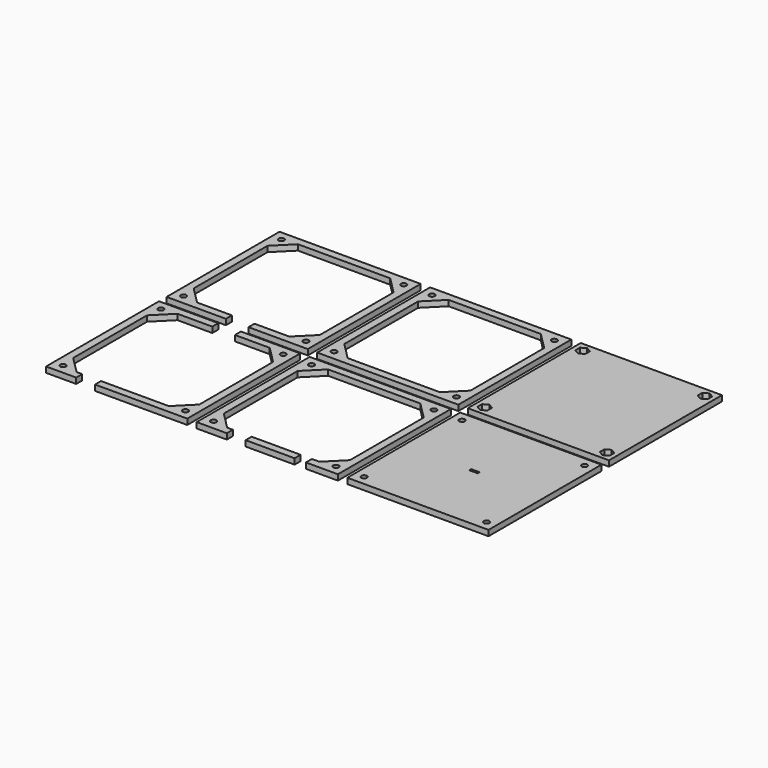
from build123d import *

# Parameters (mm, degrees)
F0_W     = 75
F0_H     = 75
F0_W_2   = 4.5
F0_H_2   = 1.25
F0_W_3   = 26
F0_H_3   = 4
F1_DEPTH = 3


with BuildPart() as f1:
    # F0 (on Top) → F1 (new body)
    with BuildSketch(Plane.XY):
        Polygon((-46.5, 15.5), (-55.5, 6.5), (-74, 6.5), (-74, 2.5), (-42.5, 2.5), (-42.5, 77.5), (-117.5, 77.5), (-117.5, 2.5), (-86, 2.5), (-86, 6.5), (-104.5, 6.5), (-113.5, 15.5), (-113.5, 64.5), (-104.5, 73.5), (-55.5, 73.5), (-46.5, 64.5), align=None)
        Polygon((-111.286475, 8.381678), (-111.073415, 7.963525), (-111, 7.5), (-111.073415, 7.036475), (-111.286475, 6.618322), (-111.618322, 6.286475), (-112.036475, 6.073415), (-112.5, 6), (-112.963525, 6.073415), (-113.381678, 6.286475), (-113.713525, 6.618322), (-113.926585, 7.036475), (-114, 7.5), (-113.926585, 7.963525), (-113.713525, 8.381678), (-113.381678, 8.713525), (-112.963525, 8.926585), (-112.5, 9), (-112.036475, 8.926585), (-111.618322, 8.713525), align=None, mode=Mode.SUBTRACT)
        Polygon((-46.286475, 8.381678), (-46.073415, 7.963525), (-46, 7.5), (-46.073415, 7.036475), (-46.286475, 6.618322), (-46.618322, 6.286475), (-47.036475, 6.073415), (-47.5, 6), (-47.963525, 6.073415), (-48.381678, 6.286475), (-48.713525, 6.618322), (-48.926585, 7.036475), (-49, 7.5), (-48.926585, 7.963525), (-48.713525, 8.381678), (-48.381678, 8.713525), (-47.963525, 8.926585), (-47.5, 9), (-47.036475, 8.926585), (-46.618322, 8.713525), align=None, mode=Mode.SUBTRACT)
        Polygon((-111.618322, 73.713525), (-111.286475, 73.381678), (-111.073415, 72.963525), (-111, 72.5), (-111.073415, 72.036475), (-111.286475, 71.618322), (-111.618322, 71.286475), (-112.036475, 71.073415), (-112.5, 71), (-112.963525, 71.073415), (-113.381678, 71.286475), (-113.713525, 71.618322), (-113.926585, 72.036475), (-114, 72.5), (-113.926585, 72.963525), (-113.713525, 73.381678), (-113.381678, 73.713525), (-112.963525, 73.926585), (-112.5, 74), (-112.036475, 73.926585), align=None, mode=Mode.SUBTRACT)
        Polygon((-46.286475, 73.381678), (-46.073415, 72.963525), (-46, 72.5), (-46.073415, 72.036475), (-46.286475, 71.618322), (-46.618322, 71.286475), (-47.036475, 71.073415), (-47.5, 71), (-47.963525, 71.073415), (-48.381678, 71.286475), (-48.713525, 71.618322), (-48.926585, 72.036475), (-49, 72.5), (-48.926585, 72.963525), (-48.713525, 73.381678), (-48.381678, 73.713525), (-47.963525, 73.926585), (-47.5, 74), (-47.036475, 73.926585), (-46.618322, 73.713525), align=None, mode=Mode.SUBTRACT)
        with Locations((0, 40)):
            Rectangle(F0_W, F0_H)
        Polygon((-31.286475, 8.381678), (-31.073415, 7.963525), (-31, 7.5), (-31.073415, 7.036475), (-31.286475, 6.618322), (-31.618322, 6.286475), (-32.036475, 6.073415), (-32.5, 6), (-32.963525, 6.073415), (-33.381678, 6.286475), (-33.713525, 6.618322), (-33.926585, 7.036475), (-34, 7.5), (-33.926585, 7.963525), (-33.713525, 8.381678), (-33.381678, 8.713525), (-32.963525, 8.926585), (-32.5, 9), (-32.036475, 8.926585), (-31.618322, 8.713525), align=None, mode=Mode.SUBTRACT)
        Polygon((-31.286475, 73.381678), (-31.073415, 72.963525), (-31, 72.5), (-31.073415, 72.036475), (-31.286475, 71.618322), (-31.618322, 71.286475), (-32.036475, 71.073415), (-32.5, 71), (-32.963525, 71.073415), (-33.381678, 71.286475), (-33.713525, 71.618322), (-33.926585, 72.036475), (-34, 72.5), (-33.926585, 72.963525), (-33.713525, 73.381678), (-33.381678, 73.713525), (-32.963525, 73.926585), (-32.5, 74), (-32.036475, 73.926585), (-31.618322, 73.713525), align=None, mode=Mode.SUBTRACT)
        Polygon((33.713525, 8.381678), (33.926585, 7.963525), (34, 7.5), (33.926585, 7.036475), (33.713525, 6.618322), (33.381678, 6.286475), (32.963525, 6.073415), (32.5, 6), (32.036475, 6.073415), (31.618322, 6.286475), (31.286475, 6.618322), (31.073415, 7.036475), (31, 7.5), (31.073415, 7.963525), (31.286475, 8.381678), (31.618322, 8.713525), (32.036475, 8.926585), (32.5, 9), (32.963525, 8.926585), (33.381678, 8.713525), align=None, mode=Mode.SUBTRACT)
        Polygon((33.5, 15.5), (24.5, 6.5), (-24.5, 6.5), (-33.5, 15.5), (-33.5, 64.5), (-24.5, 73.5), (24.5, 73.5), (33.5, 64.5), align=None, mode=Mode.SUBTRACT)
        Polygon((33.713525, 73.381678), (33.926585, 72.963525), (34, 72.5), (33.926585, 72.036475), (33.713525, 71.618322), (33.381678, 71.286475), (32.963525, 71.073415), (32.5, 71), (32.036475, 71.073415), (31.618322, 71.286475), (31.286475, 71.618322), (31.073415, 72.036475), (31, 72.5), (31.073415, 72.963525), (31.286475, 73.381678), (31.618322, 73.713525), (32.036475, 73.926585), (32.5, 74), (32.963525, 73.926585), (33.381678, 73.713525), align=None, mode=Mode.SUBTRACT)
        with Locations((80, 40)):
            Rectangle(F0_W, F0_H)
        Polygon((44.85, 9.029978), (47.5, 10.559956), (50.15, 9.029978), (50.15, 5.970022), (47.5, 4.440044), (44.85, 5.970022), align=None, mode=Mode.SUBTRACT)
        Polygon((109.85, 9.029978), (112.5, 10.559956), (115.15, 9.029978), (115.15, 5.970022), (112.5, 4.440044), (109.85, 5.970022), align=None, mode=Mode.SUBTRACT)
        Polygon((44.85, 74.029978), (47.5, 75.559956), (50.15, 74.029978), (50.15, 70.970022), (47.5, 69.440044), (44.85, 70.970022), align=None, mode=Mode.SUBTRACT)
        Polygon((109.85, 74.029978), (112.5, 75.559956), (115.15, 74.029978), (115.15, 70.970022), (112.5, 69.440044), (109.85, 70.970022), align=None, mode=Mode.SUBTRACT)
        with Locations((80, -40)):
            Rectangle(F0_W, F0_H)
        Polygon((48.713525, -71.618322), (48.926585, -72.036475), (49, -72.5), (48.926585, -72.963525), (48.713525, -73.381678), (48.381678, -73.713525), (47.963525, -73.926585), (47.5, -74), (47.036475, -73.926585), (46.618322, -73.713525), (46.286475, -73.381678), (46.073415, -72.963525), (46, -72.5), (46.073415, -72.036475), (46.286475, -71.618322), (46.618322, -71.286475), (47.036475, -71.073415), (47.5, -71), (47.963525, -71.073415), (48.381678, -71.286475), align=None, mode=Mode.SUBTRACT)
        Polygon((113.713525, -71.618322), (113.926585, -72.036475), (114, -72.5), (113.926585, -72.963525), (113.713525, -73.381678), (113.381678, -73.713525), (112.963525, -73.926585), (112.5, -74), (112.036475, -73.926585), (111.618322, -73.713525), (111.286475, -73.381678), (111.073415, -72.963525), (111, -72.5), (111.073415, -72.036475), (111.286475, -71.618322), (111.618322, -71.286475), (112.036475, -71.073415), (112.5, -71), (112.963525, -71.073415), (113.381678, -71.286475), align=None, mode=Mode.SUBTRACT)
        with Locations((80, -40)):
            Rectangle(F0_W_2, F0_H_2, mode=Mode.SUBTRACT)
        Polygon((48.713525, -6.618322), (48.926585, -7.036475), (49, -7.5), (48.926585, -7.963525), (48.713525, -8.381678), (48.381678, -8.713525), (47.963525, -8.926585), (47.5, -9), (47.036475, -8.926585), (46.618322, -8.713525), (46.286475, -8.381678), (46.073415, -7.963525), (46, -7.5), (46.073415, -7.036475), (46.286475, -6.618322), (46.618322, -6.286475), (47.036475, -6.073415), (47.5, -6), (47.963525, -6.073415), (48.381678, -6.286475), align=None, mode=Mode.SUBTRACT)
        Polygon((113.713525, -6.618322), (113.926585, -7.036475), (114, -7.5), (113.926585, -7.963525), (113.713525, -8.381678), (113.381678, -8.713525), (112.963525, -8.926585), (112.5, -9), (112.036475, -8.926585), (111.618322, -8.713525), (111.286475, -8.381678), (111.073415, -7.963525), (111, -7.5), (111.073415, -7.036475), (111.286475, -6.618322), (111.618322, -6.286475), (112.036475, -6.073415), (112.5, -6), (112.963525, -6.073415), (113.381678, -6.286475), align=None, mode=Mode.SUBTRACT)
        Polygon((24.5, -6.5), (33.5, -15.5), (33.5, -64.5), (24.5, -73.5), (20.5, -73.5), (20.5, -77.5), (37.5, -77.5), (37.5, -2.5), (-37.5, -2.5), (-37.5, -77.5), (-21.5, -77.5), (-21.5, -73.5), (-24.5, -73.5), (-33.5, -64.5), (-33.5, -15.5), (-24.5, -6.5), align=None)
        Polygon((-31.286475, -71.618322), (-31.073415, -72.036475), (-31, -72.5), (-31.073415, -72.963525), (-31.286475, -73.381678), (-31.618322, -73.713525), (-32.036475, -73.926585), (-32.5, -74), (-32.963525, -73.926585), (-33.381678, -73.713525), (-33.713525, -73.381678), (-33.926585, -72.963525), (-34, -72.5), (-33.926585, -72.036475), (-33.713525, -71.618322), (-33.381678, -71.286475), (-32.963525, -71.073415), (-32.5, -71), (-32.036475, -71.073415), (-31.618322, -71.286475), align=None, mode=Mode.SUBTRACT)
        Polygon((-31.286475, -6.618322), (-31.073415, -7.036475), (-31, -7.5), (-31.073415, -7.963525), (-31.286475, -8.381678), (-31.618322, -8.713525), (-32.036475, -8.926585), (-32.5, -9), (-32.963525, -8.926585), (-33.381678, -8.713525), (-33.713525, -8.381678), (-33.926585, -7.963525), (-34, -7.5), (-33.926585, -7.036475), (-33.713525, -6.618322), (-33.381678, -6.286475), (-32.963525, -6.073415), (-32.5, -6), (-32.036475, -6.073415), (-31.618322, -6.286475), align=None, mode=Mode.SUBTRACT)
        Polygon((33.713525, -71.618322), (33.926585, -72.036475), (34, -72.5), (33.926585, -72.963525), (33.713525, -73.381678), (33.381678, -73.713525), (32.963525, -73.926585), (32.5, -74), (32.036475, -73.926585), (31.618322, -73.713525), (31.286475, -73.381678), (31.073415, -72.963525), (31, -72.5), (31.073415, -72.036475), (31.286475, -71.618322), (31.618322, -71.286475), (32.036475, -71.073415), (32.5, -71), (32.963525, -71.073415), (33.381678, -71.286475), align=None, mode=Mode.SUBTRACT)
        Polygon((33.713525, -6.618322), (33.926585, -7.036475), (34, -7.5), (33.926585, -7.963525), (33.713525, -8.381678), (33.381678, -8.713525), (32.963525, -8.926585), (32.5, -9), (32.036475, -8.926585), (31.618322, -8.713525), (31.286475, -8.381678), (31.073415, -7.963525), (31, -7.5), (31.073415, -7.036475), (31.286475, -6.618322), (31.618322, -6.286475), (32.036475, -6.073415), (32.5, -6), (32.963525, -6.073415), (33.381678, -6.286475), align=None, mode=Mode.SUBTRACT)
        Polygon((-101.5, -77.5), (-101.5, -73.5), (-104.5, -73.5), (-113.5, -64.5), (-113.5, -15.5), (-104.5, -6.5), (-86, -6.5), (-86, -2.5), (-117.5, -2.5), (-117.5, -77.5), align=None)
        Polygon((-111.286475, -71.618322), (-111.073415, -72.036475), (-111, -72.5), (-111.073415, -72.963525), (-111.286475, -73.381678), (-111.618322, -73.713525), (-112.036475, -73.926585), (-112.5, -74), (-112.963525, -73.926585), (-113.381678, -73.713525), (-113.713525, -73.381678), (-113.926585, -72.963525), (-114, -72.5), (-113.926585, -72.036475), (-113.713525, -71.618322), (-113.381678, -71.286475), (-112.963525, -71.073415), (-112.5, -71), (-112.036475, -71.073415), (-111.618322, -71.286475), align=None, mode=Mode.SUBTRACT)
        Polygon((-111.286475, -6.618322), (-111.073415, -7.036475), (-111, -7.5), (-111.073415, -7.963525), (-111.286475, -8.381678), (-111.618322, -8.713525), (-112.036475, -8.926585), (-112.5, -9), (-112.963525, -8.926585), (-113.381678, -8.713525), (-113.713525, -8.381678), (-113.926585, -7.963525), (-114, -7.5), (-113.926585, -7.036475), (-113.713525, -6.618322), (-113.381678, -6.286475), (-112.963525, -6.073415), (-112.5, -6), (-112.036475, -6.073415), (-111.618322, -6.286475), align=None, mode=Mode.SUBTRACT)
        Polygon((-46.5, -64.5), (-55.5, -73.5), (-91.5, -73.5), (-91.5, -77.5), (-42.5, -77.5), (-42.5, -2.5), (-74, -2.5), (-74, -6.5), (-55.5, -6.5), (-46.5, -15.5), align=None)
        Polygon((-46.286475, -71.618322), (-46.073415, -72.036475), (-46, -72.5), (-46.073415, -72.963525), (-46.286475, -73.381678), (-46.618322, -73.713525), (-47.036475, -73.926585), (-47.5, -74), (-47.963525, -73.926585), (-48.381678, -73.713525), (-48.713525, -73.381678), (-48.926585, -72.963525), (-49, -72.5), (-48.926585, -72.036475), (-48.713525, -71.618322), (-48.381678, -71.286475), (-47.963525, -71.073415), (-47.5, -71), (-47.036475, -71.073415), (-46.618322, -71.286475), align=None, mode=Mode.SUBTRACT)
        Polygon((-46.286475, -6.618322), (-46.073415, -7.036475), (-46, -7.5), (-46.073415, -7.963525), (-46.286475, -8.381678), (-46.618322, -8.713525), (-47.036475, -8.926585), (-47.5, -9), (-47.963525, -8.926585), (-48.381678, -8.713525), (-48.713525, -8.381678), (-48.926585, -7.963525), (-49, -7.5), (-48.926585, -7.036475), (-48.713525, -6.618322), (-48.381678, -6.286475), (-47.963525, -6.073415), (-47.5, -6), (-47.036475, -6.073415), (-46.618322, -6.286475), align=None, mode=Mode.SUBTRACT)
        with Locations((1.5, -75.5)):
            Rectangle(F0_W_3, F0_H_3)
    extrude(amount=F1_DEPTH)


solid = f1.part
